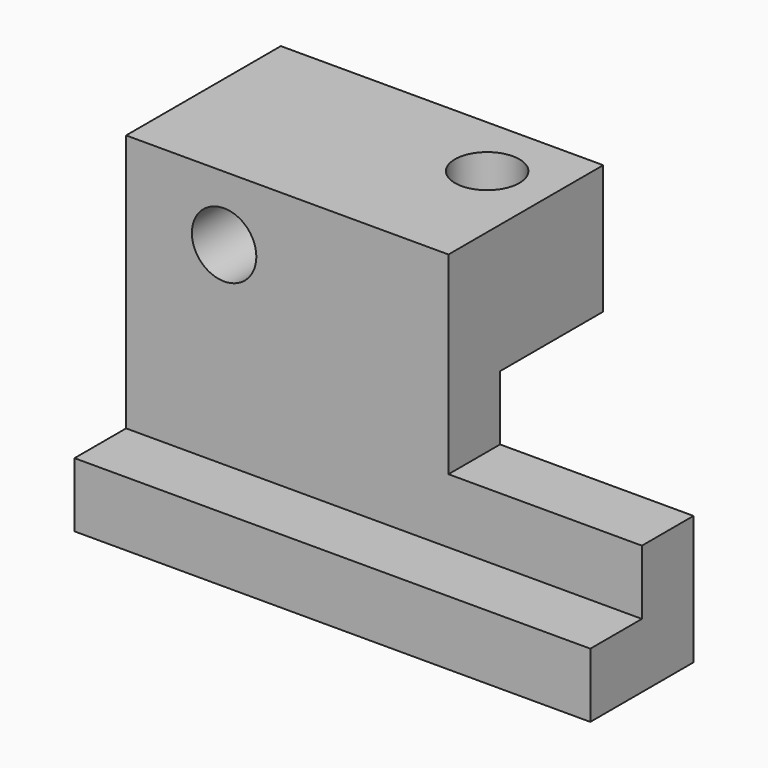
from build123d import *

# Parameters (mm, degrees)
F0_R     = 3.175
F1_DEPTH = 6.35
F3_DEPTH = 6.35
F4_W     = 31.75
F4_H     = 12.7
F4_R     = 3.175
F5_DEPTH = 12.7
F6_R     = 3.175
F7_DEPTH = 25.4


with BuildPart() as f1:
    # F0 (on Front) → F1 (new body)
    with BuildSketch(Plane.XZ):
        Polygon((19.05, 0), (0, 0), (0, 19.05), (-31.75, 19.05), (-31.75, -12.7), (19.05, -12.7), align=None)
        with Locations((-22.098, 12.7)):
            Circle(F0_R, mode=Mode.SUBTRACT)
    extrude(amount=F1_DEPTH)

    # F2 (on face) → F3 (join)
    with BuildSketch(Plane.XZ.offset(6.35)):
        Polygon((19.05, -6.35), (0, -6.35), (-31.75, -6.35), (-31.75, -12.7), (0, -12.7), (19.05, -12.7), align=None)
    extrude(amount=F3_DEPTH)

    # F4 (on face) → F5 (join)
    with BuildSketch(Plane(origin=(0, 0, 0), x_dir=(-1, 0, 0), z_dir=(0, 1, 0))):
        with Locations((15.875, 12.7)):
            Rectangle(F4_W, F4_H)
        with Locations((22.098, 12.7)):
            Circle(F4_R, mode=Mode.SUBTRACT)
    extrude(amount=F5_DEPTH)

    # F6 (on face) → F7 (cut)
    with BuildSketch(Plane.XY.offset(19.05)):
        with Locations((-6.35, 6.35)):
            Circle(F6_R)
    extrude(amount=-F7_DEPTH, mode=Mode.SUBTRACT)


solid = f1.part
